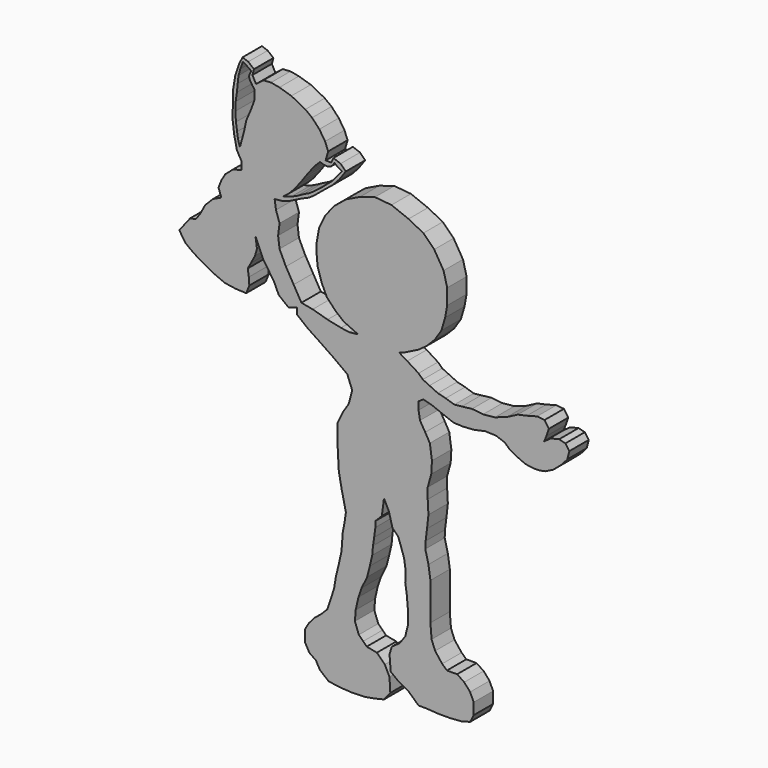
from build123d import *

# Parameters (mm, degrees)
F1_DEPTH = 6.1595


with BuildPart() as f1:
    # F0 (on Front) → F1 (new body)
    with BuildSketch(Plane.XZ):
        Polygon((0, 12.633158), (-2.8671, 14.425095), (-4.965784, 15.68461), (-6.80775, 16.605591), (-9.702262, 16.737161), (-12.859916, 16.737161), (-15.359723, 16.342456), (-17.596394, 16.079318), (-19.71131, 16.396226), (-23.115991, 17.113002), (-26.879059, 18.188164), (-29.74616, 18.725745), (-30.821322, 17.292194), (-30.821322, 15.679451), (-28.133417, 13.529127), (-24.907928, 11.378802), (-21.503247, 9.049283), (-18.098567, 6.540571), (-16.844211, 3.315084), (-17.740179, 0), (-19.17373, -2.239922), (-20.60728, -5.286215), (-20.60728, -9.228477), (-20.428086, -12.633158), (-20.248892, -15.858645), (-19.532116, -19.621713), (-18.456955, -24.459945), (-16.127435, -24.459945), (-13.618723, -23.922363), (-10.930818, -23.922363), (-9.318074, -22.30962), (-8.780492, -18.188164), (-7.526137, -20.696877), (-6.630169, -24.101557), (-5.196619, -25.535107), (-3.404681, -24.639139), (0, -24.101557), (1.791938, -24.280751), (2.150325, -21.41365), (2.508712, -18.188164), (2.329518, -14.783483), (2.329518, -12.095577), (3.225487, -8.870089), (3.404681, -5.823796), (2.867099, -2.060728), (1.690419, 0), (0.372831, 2.200139), (0, 4.380441), (0, 6.380419), (1.188055, 7.180411), (3.488031, 6.580418), (5.988004, 5.580429), (8.887971, 4.48044), (7.987984, 5.38043), (7.987984, 6.980413), (9.087969, 8.580396), (6.887995, 9.280388), (4.888015, 9.780384), (2.788038, 10.780373), (1.088057, 11.580364), align=None)
        Polygon((-6.80775, 16.605591), (-4.965784, 15.68461), (-3.650097, 16.079318), (-2.071272, 16.868731), (0, 17.92128), (2.007364, 19.368539), (4.112467, 21.473641), (5.822858, 24.105016), (6.743841, 27.262667), (7.270116, 30.157182), (7.270116, 34.10425), (6.349137, 37.656609), (3.980896, 41.603673), (1.217951, 44.366617), (-2.541672, 46.306193), (-6.870922, 48.011653), (-11.068982, 48.405223), (-14.873475, 47.224518), (-18.415589, 45.519054), (-21.301756, 43.157645), (-23.663165, 40.27148), (-25.237437, 36.991745), (-25.893385, 33.318441), (-25.893385, 30.957032), (-25.631007, 28.202055), (-24.58149, 24.791131), (-23.269597, 22.036154), (-21.039378, 19.674743), (-18.940346, 17.96928), (-15.359723, 16.342456), (-12.859916, 16.737161), (-9.702262, 16.737161), align=None)
        Polygon((10.98795, 8.780394), (9.087969, 8.580396), (7.987984, 6.980413), (7.987984, 5.38043), (8.887971, 4.48044), (11.287946, 4.380441), (14.187916, 4.580439), (16.887886, 5.180432), (19.687856, 5.080434), (21.887833, 4.280442), (23.18782, 3.080455), (25.087798, 2.080466), (27.087776, 1.180475), (28.987758, 0.880479), (30.587738, 0.880479), (32.187719, 1.180475), (34.187701, 2.180465), (36.287677, 3.980445), (37.787661, 5.680427), (38.287658, 7.680406), (37.287667, 9.08039), (35.687685, 9.480386), (33.587705, 8.980392), (31.887729, 7.780404), (32.487717, 9.180389), (33.087716, 10.98037), (31.987727, 12.580354), (30.087747, 12.780351), (27.487773, 12.080358), (25.187796, 11.580364), (22.487827, 10.180378), (19.387858, 9.08039), (16.387891, 8.780394), (13.587921, 9.08039), align=None)
        Polygon((-30.821322, 17.292194), (-29.74616, 18.725745), (-31.717289, 22.130426), (-33.688422, 25.535107), (-35.301164, 28.939787), (-35.659552, 31.806886), (-35.301164, 34.673985), (-36.197133, 37.361894), (-36.555521, 39.691411), (-37.705511, 39.356165), (-39.154857, 38.170334), (-40.472448, 37.361894), (-40.604208, 35.930432), (-40.735967, 34.744602), (-42.317074, 33.822287), (-41.263003, 32.504696), (-41.394763, 31.05535), (-41.394763, 29.737759), (-40.735967, 28.288411), (-39.42262, 25.176719), (-38.168266, 23.384782), (-36.734715, 21.234458), (-35.480358, 18.546551), (-32.971647, 16.57542), align=None)
        Polygon((-37.705511, 39.356165), (-36.555521, 39.691411), (-34.806814, 39.870605), (-32.698672, 40.541995), (-30.063491, 41.859586), (-27.69183, 42.913657), (-26.242482, 43.967728), (-23.87082, 45.944113), (-21.762677, 47.656979), (-20.181568, 49.369846), (-18.468702, 51.741507), (-19.786291, 53.059097), (-21.630917, 53.717893), (-22.157952, 52.532062), (-23.607301, 52.532062), (-22.948507, 54.771964), (-23.73906, 56.748345), (-25.188407, 58.988251), (-27.033033, 60.964637), (-28.745901, 62.282223), (-32.303393, 64.126849), (-35.333849, 65.049164), (-37.441991, 65.44444), (-39.418377, 65.312684), (-41.263003, 63.86333), (-42.185314, 65.576196), (-41.790038, 67.02555), (-43.239385, 68.211377), (-44.688735, 68.738416), (-45.61105, 66.893786), (-46.533361, 64.126849), (-47.060397, 60.964637), (-47.060397, 58.592975), (-47.192156, 56.221314), (-47.192156, 53.717893), (-46.796881, 50.687436), (-46.138085, 47.52522), (-44.952255, 45.417078), (-44.952255, 43.440692), (-43.634664, 43.045416), (-41.658279, 43.045416), (-40.340688, 41.991346), (-38.496062, 40.937275), align=None)
        Polygon((-41.647654, 61.421499), (-41.658279, 60.174081), (-42.580593, 57.67066), (-43.766424, 54.903723), (-44.29346, 52.400302), (-45.357108, 48.390843), (-45.86618, 50.12767), (-46.075799, 51.684827), (-46.375249, 53.721108), (-46.524975, 56.086786), (-46.43514, 58.27279), (-46.135686, 60.42885), (-45.926072, 62.435187), (-45.716453, 64.321741), (-45.265805, 65.936714), (-44.60796, 67.790642), (-43.651093, 67.222498), (-42.45501, 66.385247), (-42.813834, 65.757297), (-43.05305, 65.00975), (-42.87364, 64.351901), (-42.275596, 63.335232), (-41.658279, 62.512726), align=None, mode=Mode.SUBTRACT)
        Polygon((-32.37801, 41.566517), (-34.321643, 41.02828), (-33.035856, 42.01505), (-31.570654, 43.510154), (-30.583885, 44.795945), (-29.627018, 46.021927), (-28.819662, 47.188111), (-28.042208, 48.234683), (-27.175048, 49.370963), (-26.128475, 50.626848), (-24.992196, 51.763128), (-24.244644, 51.464107), (-23.19807, 51.344499), (-22.33091, 51.553816), (-21.583358, 52.271463), (-21.344142, 52.749898), (-20.716198, 52.211661), (-19.460311, 51.464107), (-19.998549, 50.776359), (-20.776002, 49.819492), (-22.091694, 48.324388), (-23.437288, 47.188111), (-24.573566, 46.171438), (-26.038768, 45.065064), (-27.623579, 43.928783), (-29.238291, 43.15133), (-30.823102, 42.284168), align=None, mode=Mode.SUBTRACT)
        Polygon((-44.425219, 31.845905), (-41.394763, 29.737759), (-41.394763, 31.05535), (-41.263003, 32.504696), (-42.317074, 33.822287), (-40.735967, 34.744602), (-40.604208, 35.930432), (-40.472448, 37.361894), (-39.154857, 38.170334), (-37.705511, 39.356165), (-38.496062, 40.937275), (-40.340688, 41.991346), (-41.658279, 43.045416), (-43.634664, 43.045416), (-43.634664, 40.937275), (-44.425219, 39.356165), (-46.138085, 38.43385), (-46.796881, 36.720987), (-49.432058, 35.930432), (-50.090853, 35.61672), (-52.198999, 34.612842), (-50.090853, 34.349322), (-47.587432, 33.558771), align=None)
        Polygon((-41.035365, 27.14785), (-41.394763, 29.737759), (-44.425219, 31.845905), (-47.587432, 33.558771), (-50.090853, 34.349322), (-52.198999, 34.612842), (-54.175381, 32.636456), (-55.361211, 30.396555), (-56.547042, 28.683688), (-54.965936, 28.288411), (-52.462514, 27.497858), (-49.959093, 26.048509), (-46.665121, 24.072124), (-43.371145, 21.96398), (-42.580593, 23.41333), (-41.526519, 25.389714), align=None)
        Polygon((-43.107629, 20.119356), (-43.371145, 21.96398), (-46.665121, 24.072124), (-49.959093, 26.048509), (-52.462514, 27.497858), (-54.965936, 28.288411), (-56.547042, 28.683688), (-57.996392, 28.420171), (-60.763329, 24.862679), (-59.050463, 26.048509), (-56.547042, 25.521472), (-53.516585, 24.730919), (-51.013164, 23.41333), (-48.641503, 21.96398), (-45.61105, 19.987596), (-44.425219, 18.670006), (-43.766424, 16.298344), (-42.975869, 18.27473), align=None)
        Polygon((-43.634664, 40.937275), (-43.634664, 43.045416), (-44.952255, 43.440692), (-47.130547, 42.86271), (-49.095549, 41.159708), (-50.090853, 39.456706), (-50.79855, 37.622705), (-50.090853, 35.61672), (-49.432058, 35.930432), (-46.796881, 36.720987), (-46.138085, 38.43385), (-44.425219, 39.356165), align=None)
        Polygon((1.71157, -26.103934), (1.791938, -24.280751), (0, -24.101557), (-3.404681, -24.639139), (-5.196619, -25.535107), (-4.479416, -27.5019), (-3.68058, -29.898411), (-3.281162, -32.494631), (-3.381015, -35.190705), (-2.981597, -37.88678), (-2.682032, -41.381691), (-2.682032, -44.57704), (-3.381015, -47.273114), (-4.778981, -49.270209), (-6.776073, -50.668173), (-7.3752, -52.565411), (-7.075637, -56.359887), (-5.278253, -57.757851), (-2.482323, -59.355527), (0, -61.652184), (1.91128, -61.652184), (5.006774, -61.851893), (7.902557, -61.851893), (10.798343, -61.652184), (13.094998, -61.053053), (13.993691, -59.255671), (13.993691, -56.359887), (13.094998, -54.362793), (11.597179, -52.665263), (9.799794, -51.467009), (7.203574, -51.467009), (6.00532, -50.368607), (4.207935, -48.071954), (3.309246, -45.775298), (3.009681, -42.180531), (3.009681, -39.484456), (3.009681, -35.789832), (3.009681, -32.69434), (2.510407, -29.299283), align=None)
        Polygon((-16.127435, -24.459945), (-18.456955, -24.459945), (-18.758627, -26.603207), (-19.257901, -29.299283), (-19.45761, -31.995356), (-19.557465, -33.493176), (-20.356301, -37.087943), (-20.955428, -39.484456), (-21.454703, -42.480092), (-22.353394, -45.276023), (-23.15223, -47.672532), (-24.749905, -49.270209), (-26.447434, -50.668173), (-27.845399, -52.265845), (-28.843945, -53.963374), (-28.843945, -56.859158), (-27.745543, -58.856253), (-26.048016, -60.054507), (-25.049469, -61.851893), (-22.852669, -63.649274), (-20.156592, -64.048693), (-17.061098, -64.248398), (-13.666041, -64.148545), (-11.369386, -63.749127), (-8.773165, -63.150004), (-7.175491, -61.152909), (-7.3752, -57.657998), (-8.573456, -55.261485), (-10.570548, -53.264391), (-13.166768, -52.76512), (-14.065459, -51.866427), (-15.163861, -50.768029), (-16.162409, -48.071954), (-15.962699, -45.475733), (-15.263716, -42.38024), (-14.464879, -40.083583), (-13.066914, -37.1878), (-12.367931, -34.491722), (-11.768804, -31.895503), (-11.569095, -29.698702), (-11.269531, -27.701609), (-10.969967, -25.404952), (-10.930818, -23.922363), (-13.618723, -23.922363), align=None)
        Polygon((-46.533361, 16.430104), (-43.766424, 16.298344), (-44.425219, 18.670006), (-45.61105, 19.987596), (-48.641503, 21.96398), (-51.013164, 23.41333), (-53.516585, 24.730919), (-56.547042, 25.521472), (-59.050463, 26.048509), (-60.763329, 24.862679), (-59.182223, 22.491017), (-57.074077, 20.909909), (-54.834176, 19.592319), (-51.935479, 18.011212), (-49.168542, 16.825382), align=None)
    extrude(amount=F1_DEPTH)


solid = f1.part
